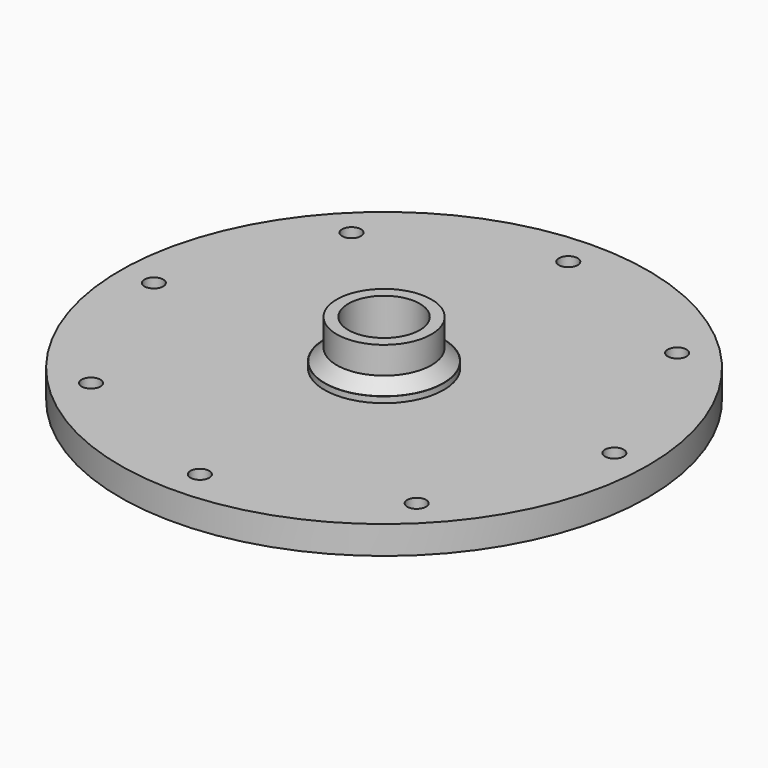
from build123d import *

# Parameters (mm, degrees)
F0_R     = 22.165
F0_R_2   = 0.79
F0_R_3   = 5
F0_W     = 0.864478
F0_H     = 4.103523
F1_DEPTH = 1.18
F2_R     = 5
F2_R_2   = 3.975
F3_DEPTH = 2.86
F2_R_3   = 3
F4_DEPTH = 6.14
F2_R_4   = 1.435
F5_DEPTH = 0.5
F6_SIZE  = 1
F7_DEPTH = 25


with BuildPart() as f1:
    # F0 (on Top) → F1 (new body, symmetric)
    with BuildSketch(Plane.XY):
        Circle(F0_R)
        with Locations((-13.67191, -13.67191)):
            Circle(F0_R_2, mode=Mode.SUBTRACT)
        with Locations((0, -19.335)):
            Circle(F0_R_2, mode=Mode.SUBTRACT)
        with Locations((13.67191, -13.67191)):
            Circle(F0_R_2, mode=Mode.SUBTRACT)
        with Locations((-19.335, 0)):
            Circle(F0_R_2, mode=Mode.SUBTRACT)
        with Locations((-13.67191, 13.67191)):
            Circle(F0_R_2, mode=Mode.SUBTRACT)
        Circle(F0_R_3, mode=Mode.SUBTRACT)
        with Locations((19.335, 0)):
            Circle(F0_R_2, mode=Mode.SUBTRACT)
        with Locations((0, 15.216693)):
            Rectangle(F0_W, F0_H, mode=Mode.SUBTRACT)
        with Locations((0, 19.335)):
            Circle(F0_R_2, mode=Mode.SUBTRACT)
        with Locations((13.67191, 13.67191)):
            Circle(F0_R_2, mode=Mode.SUBTRACT)
        with Locations((0, 15.216693)):
            Rectangle(F0_W, F0_H)
    extrude(amount=F1_DEPTH, both=True)

    # F2 (on face) → F3 (join)
    with BuildSketch(Plane(origin=(0, 0, -1.18), x_dir=(1, 0, 0), z_dir=(0, 0, -1))):
        Circle(F2_R)
        Circle(F2_R_2, mode=Mode.SUBTRACT)
    extrude(amount=-F3_DEPTH)

    # F2 (on face) → F4 (join)
    with BuildSketch(Plane(origin=(0, 0, -1.18), x_dir=(1, 0, 0), z_dir=(0, 0, -1))):
        Circle(F2_R_2)
        Circle(F2_R_3, mode=Mode.SUBTRACT)
    extrude(amount=-F4_DEPTH)

    # F2 (on face) → F5 (join)
    with BuildSketch(Plane(origin=(0, 0, -1.18), x_dir=(1, 0, 0), z_dir=(0, 0, -1))):
        Circle(F2_R_3)
        Circle(F2_R_4, mode=Mode.SUBTRACT)
    extrude(amount=-F5_DEPTH)

    # F6
    f6_edges = [f1.edges().sort_by_distance(p)[0] for p in [
        (-3.975, 0, 1.68),
    ]]
    chamfer(f6_edges, length=F6_SIZE)

    # F0 (on Top) → F7 (cut)
    with BuildSketch(Plane.XY):
        with Locations((0, 15.216693)):
            Rectangle(F0_W, F0_H)
    extrude(amount=-F7_DEPTH, mode=Mode.SUBTRACT)


solid = f1.part
